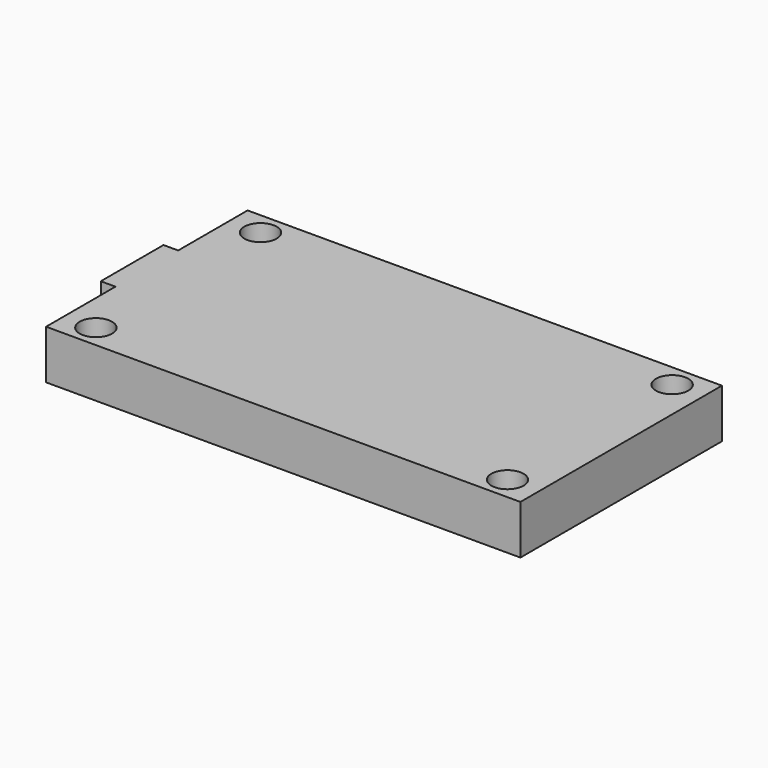
from build123d import *

# Parameters (mm, degrees)
SKETCH_W     = 48.4
SKETCH_H     = 25.7
PAD_DEPTH    = 5
SKETCH001_W  = 8
SKETCH001_H  = 3
PAD001_DEPTH = 1.5
SKETCH002_R  = 1.65
POCKET_DEPTH = 5.001


with BuildPart() as part:
    # Sketch → Pad (new body)
    with BuildSketch(Plane.XY):
        Rectangle(SKETCH_W, SKETCH_H)
    extrude(amount=PAD_DEPTH)

    # Sketch001 (on Face4 of Pad) → Pad001 (join)
    with BuildSketch(Plane(origin=(-24.2, 0, 0), x_dir=(0, -1, 0), z_dir=(-1, 0, 0))):
        with Locations((0, 3.5)):
            Rectangle(SKETCH001_W, SKETCH001_H)
    extrude(amount=PAD001_DEPTH)

    # Sketch002 (on Face5 of Pad001) → Pocket (cut, through all)
    with BuildSketch(Plane.XY.offset(5)):
        with Locations((-21, 10.5)):
            Circle(SKETCH002_R)
        with Locations((-21, -10.5)):
            Circle(SKETCH002_R)
        with Locations((21, 10.5)):
            Circle(SKETCH002_R)
        with Locations((21, -10.5)):
            Circle(SKETCH002_R)
    extrude(amount=-POCKET_DEPTH, mode=Mode.SUBTRACT)


with BuildPart() as part_1:
    # Body placement: moved
    add(part.part.moved(Location((0, 0, 6.5))))


solid = part_1.part
